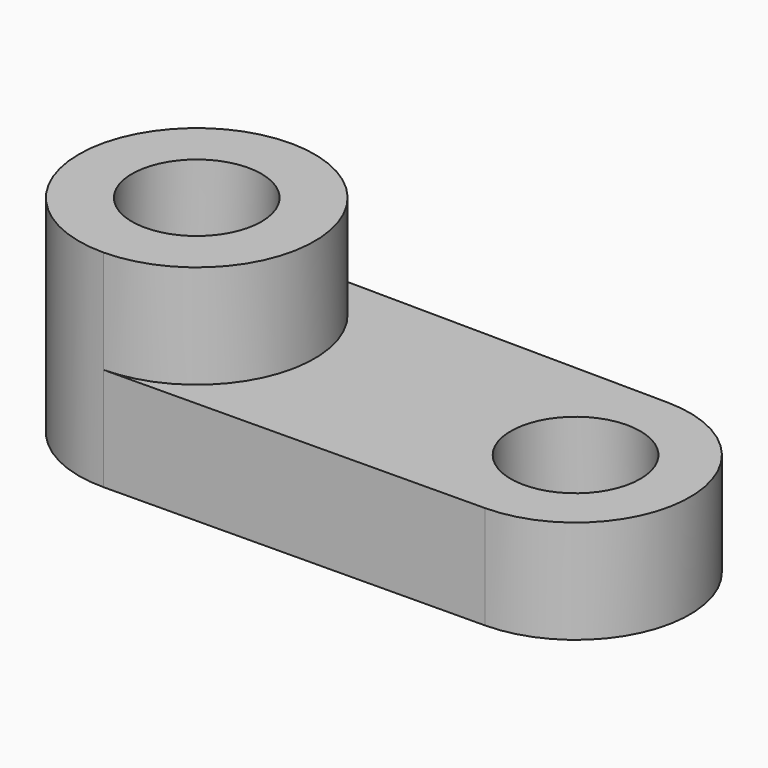
from build123d import *

# Parameters (mm, degrees)
F0_R     = 15.920661
F1_DEPTH = 25.4
F2_DEPTH = 25.4


with BuildPart() as f1:
    # F0 (on Top) → F1 (new body)
    with BuildSketch(Plane.XY):
        with BuildLine():
            ThreePointArc((-46.308367, -28.973528), (-17.604609, 0), (-46.308367, 28.973528))
            ThreePointArc((-46.308367, 28.973528), (-75.554202, 0), (-46.308367, -28.973528))
        make_face()
        with Locations((-46.579406, 0)):
            Circle(F0_R, mode=Mode.SUBTRACT)
    extrude(amount=F1_DEPTH)

    # F0 (on Top) → F2 (join)
    with BuildSketch(Plane.XY):
        with BuildLine():
            Line((46.842293, 28.102132), (-46.308367, 28.973528))
            ThreePointArc((-46.308367, 28.973528), (-17.604609, 0), (-46.308367, -28.973528))
            Line((-46.308367, -28.973528), (46.842293, -28.102132))
            ThreePointArc((46.842293, -28.102132), (74.682768, 0), (46.842293, 28.102132))
        make_face()
        with Locations((46.579406, 0)):
            Circle(F0_R, mode=Mode.SUBTRACT)
        with BuildLine():
            ThreePointArc((-46.308367, -28.973528), (-17.604609, 0), (-46.308367, 28.973528))
            ThreePointArc((-46.308367, 28.973528), (-75.554202, 0), (-46.308367, -28.973528))
        make_face()
        with Locations((-46.579406, 0)):
            Circle(F0_R, mode=Mode.SUBTRACT)
    extrude(amount=-F2_DEPTH)


solid = f1.part
